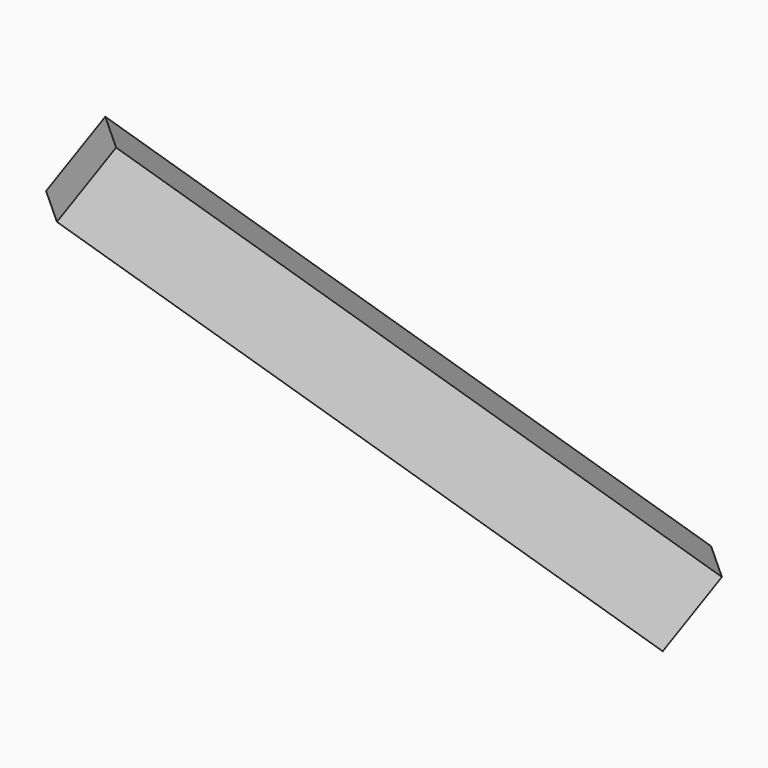
from build123d import *

# Parameters (mm, degrees)
BOX_W               = 80
BOX_H               = 10
BOX_DEPTH           = 10
BOX_ROLL_ANGLE      = 78.842738
BOX_PITCH_ANGLE     = 38.475947
BOX_PLACEMENT_ANGLE = 38.177648


with BuildPart() as part:
    # Box → Box (new body)
    with BuildSketch(Plane.XY):
        with Locations((40, 5)):
            Rectangle(BOX_W, BOX_H)
    extrude(amount=BOX_DEPTH)


with BuildPart() as part_1:
    # Box roll: moved
    add(part.part.rotate(Axis((0, 0, 0), (1, 0, 0)), BOX_ROLL_ANGLE))


with BuildPart() as part_2:
    # Box pitch: moved
    add(part_1.part.rotate(Axis((0, 0, 0), (0, 1, 0)), BOX_PITCH_ANGLE))


with BuildPart() as part_3:
    # Box placement: moved
    add(part_2.part.rotate(Axis((0, 0, 0), (0, 0, 1)), BOX_PLACEMENT_ANGLE))


solid = part_3.part
